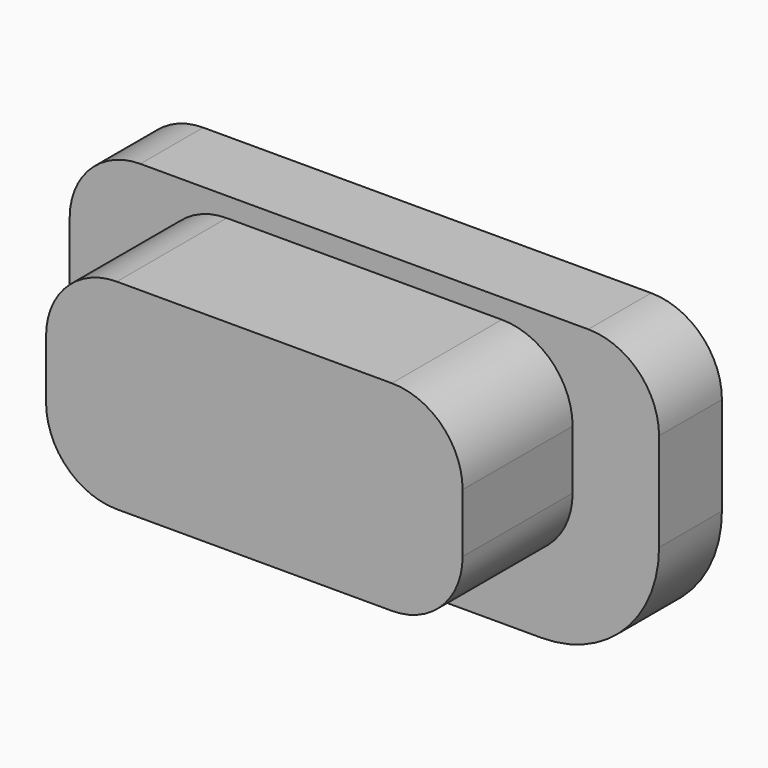
from build123d import *

# Parameters (mm, degrees)
EXTRUDE015_DEPTH = 1
EXTRUDE014_DEPTH = 2.25


with BuildPart() as extrude015:
    # Sketch015 → Extrude015 (new body)
    with BuildSketch(Plane.XZ):
        with BuildLine():
            ThreePointArc((11.7, 16.35), (11.063604, 16.086396), (10.8, 15.45))
            Line((10.8, 14.2), (10.8, 15.45))
            ThreePointArc((10.8, 14.2), (11.23934, 13.13934), (12.3, 12.7))
            Line((16.8, 12.7), (12.3, 12.7))
            ThreePointArc((16.8, 12.7), (17.86066, 13.13934), (18.3, 14.2))
            Line((18.3, 15.45), (18.3, 14.2))
            ThreePointArc((18.3, 15.45), (18.036396, 16.086396), (17.4, 16.35))
            Line((11.7, 16.35), (17.4, 16.35))
        make_face()
    extrude(amount=EXTRUDE015_DEPTH)


with BuildPart() as extrude015_1:
    # Extrude015 placement: moved
    add(extrude015.part.moved(Location((0, 2.5, 0))))


with BuildPart() as button1:
    # Sketch014 → Extrude014 (new body)
    with BuildSketch(Plane.XZ):
        with BuildLine():
            ThreePointArc((12.8, 16.1), (12.163604, 15.836396), (11.9, 15.2))
            Line((11.9, 14.45), (11.9, 15.2))
            ThreePointArc((11.9, 14.45), (12.163604, 13.813604), (12.8, 13.55))
            Line((16.3, 13.55), (12.8, 13.55))
            ThreePointArc((16.3, 13.55), (16.936396, 13.813604), (17.2, 14.45))
            Line((17.2, 15.2), (17.2, 14.45))
            ThreePointArc((17.2, 15.2), (16.936396, 15.836396), (16.3, 16.1))
            Line((12.8, 16.1), (16.3, 16.1))
        make_face()
    extrude(amount=EXTRUDE014_DEPTH)


with BuildPart() as button1_1:
    # Extrude014 placement: moved
    add(button1.part.moved(Location((0, 2, 0))))

    # Fusion018: union Extrude015
    add(extrude015_1.part)


solid = button1_1.part
